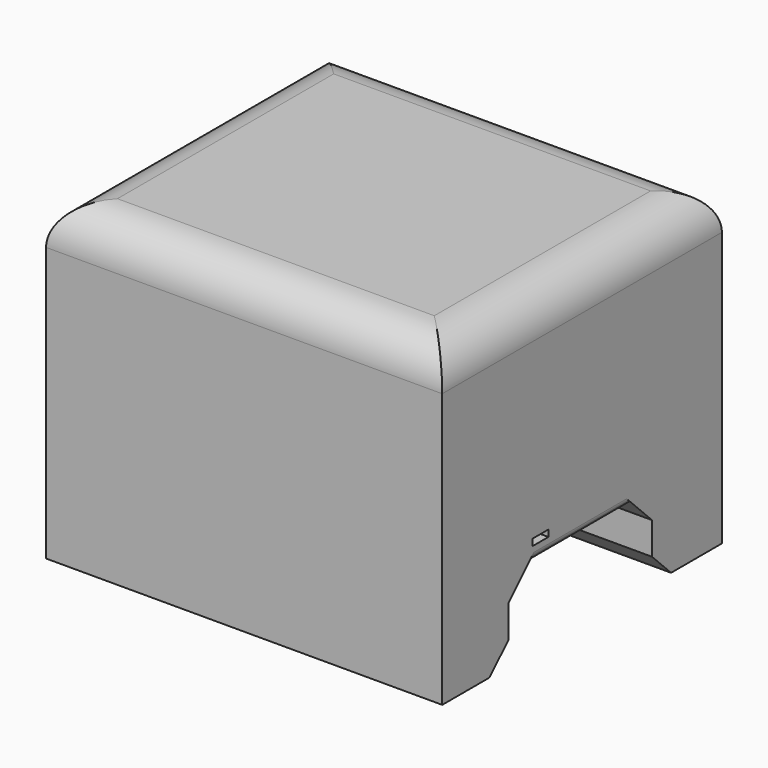
from build123d import *

# Parameters (mm, degrees)
F0_W      = 126.9331611693
F0_H      = 100.463680923
F1_DEPTH  = 112.014
F2_R      = 12.7
F3_W      = 57.4507880956
F3_H      = 35.7939470559
F4_DEPTH  = 166.37
F5_DEPTH  = 99.822
F8_SIZE   = 7.62
F9_W      = 6.3165798783
F9_H      = 2.1055256948
F10_DEPTH = 148.844
F11_R     = 2.54


with BuildPart() as f1:
    # F0 (on Front) → F1 (new body)
    with BuildSketch(Plane.XZ):
        with Locations((3.1582918018, 3.759868443)):
            Rectangle(F0_W, F0_H)
    extrude(amount=F1_DEPTH)

    # F2
    f2_edges = [f1.edges().sort_by_distance(p)[0] for p in [
        (3.158292, -112.014, 53.991709),
        (66.624872, -56.007, 53.991709),
        (3.158292, 0, 53.991709),
        (-60.308289, -56.007, 53.991709),
    ]]
    fillet(f2_edges, radius=F2_R)


with BuildPart() as f4:
    # F3 (on Right) → F4 (new body)
    with BuildSketch(Plane.YZ):
        with Locations((-56.7088415846, -38.8018405065)):
            Rectangle(F3_W, F3_H)
    extrude(amount=F4_DEPTH)

    # F5 (add): a face of the model
    f5_faces = [f4.faces().sort_by_distance(p)[0] for p in [
        (166.37, -56.7088415846, -38.8018405065),
    ]]
    extrude(f5_faces, amount=F5_DEPTH)


with BuildPart() as f4_1:
    # F6: moved
    add(f4.part.moved(Location((-151.384, 0, 0))))


with BuildPart() as f1_1:
    add(f1.part)

    # F7: cut F4
    add(f4_1.part, mode=Mode.SUBTRACT)

    # F8
    f8_edges = [f1_1.edges().sort_by_distance(p)[0] for p in [
        (3.158292, -85.434236, -46.471972),
        (3.158292, -27.983448, -46.471972),
        (3.158292, -27.983448, -20.904867),
        (3.158292, -85.434236, -20.904867),
    ]]
    chamfer(f8_edges, length=F8_SIZE)

    # F9 (on Right) → F10 (cut)
    with BuildSketch(Plane.YZ):
        with Locations((-72.6506821811, -15.3402634896)):
            Rectangle(F9_W, F9_H)
    extrude(amount=F10_DEPTH, mode=Mode.SUBTRACT)

    # F11
    f11_edges = [f1_1.edges().sort_by_distance(p)[0] for p in [
        (66.624872, -56.708842, -20.904867),
    ]]
    fillet(f11_edges, radius=F11_R)


solid = f1_1.part
